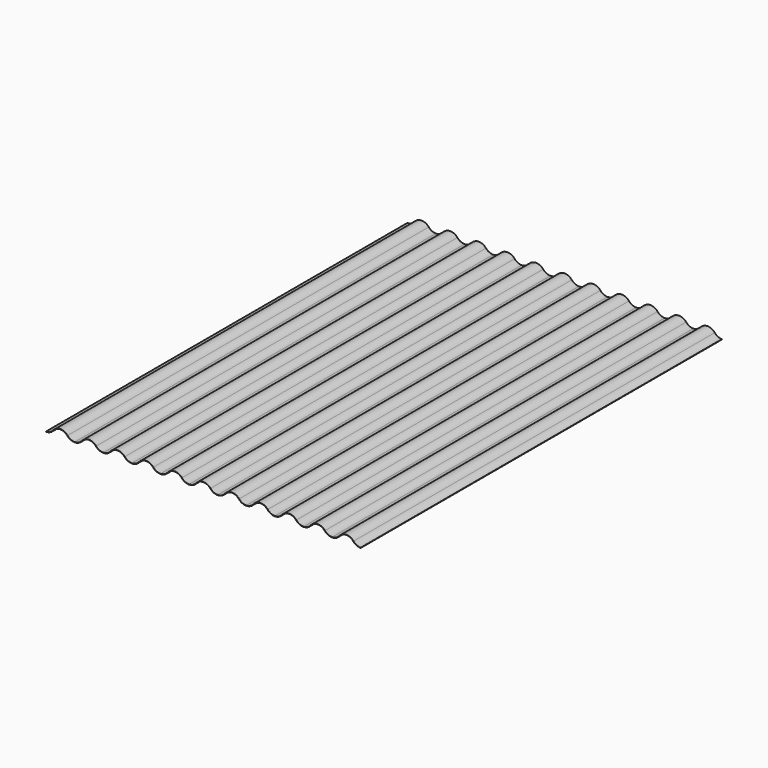
from build123d import *

# Parameters (mm, degrees)
F1_DEPTH = 1200


with BuildPart() as f1:
    # F0 (on Front) → F1 (new body)
    with BuildSketch(Plane.XZ):
        with BuildLine():
            ThreePointArc((38, 0), (27.488102, 2.363771), (19, 9))
            ThreePointArc((19, 9), (0, 18), (-19, 9))
            ThreePointArc((-19, 9), (-27.488102, 2.363771), (-38, 0))
            Line((-38, 0), (-38, -0.8))
            ThreePointArc((-38, -0.8), (-27.145633, 1.640781), (-18.380995, 8.493213))
            ThreePointArc((-18.380995, 8.493213), (0, 17.2), (18.380995, 8.493213))
            ThreePointArc((18.380995, 8.493213), (27.145633, 1.640781), (38, -0.8))
            ThreePointArc((38, -0.8), (48.854367, 1.640781), (57.619005, 8.493213))
            ThreePointArc((57.619005, 8.493213), (76, 17.2), (94.380995, 8.493213))
            ThreePointArc((94.380995, 8.493213), (103.145633, 1.640781), (114, -0.8))
            ThreePointArc((114, -0.8), (124.854367, 1.640781), (133.619005, 8.493213))
            ThreePointArc((133.619005, 8.493213), (152, 17.2), (170.380995, 8.493213))
            ThreePointArc((170.380995, 8.493213), (179.145633, 1.640781), (190, -0.8))
            ThreePointArc((190, -0.8), (200.854367, 1.640781), (209.619005, 8.493213))
            ThreePointArc((209.619005, 8.493213), (228, 17.2), (246.380995, 8.493213))
            ThreePointArc((246.380995, 8.493213), (255.145633, 1.640781), (266, -0.8))
            ThreePointArc((266, -0.8), (276.854367, 1.640781), (285.619005, 8.493213))
            ThreePointArc((285.619005, 8.493213), (304, 17.2), (322.380995, 8.493213))
            ThreePointArc((322.380995, 8.493213), (331.145633, 1.640781), (342, -0.8))
            ThreePointArc((342, -0.8), (352.854367, 1.640781), (361.619005, 8.493213))
            ThreePointArc((361.619005, 8.493213), (380, 17.2), (398.380995, 8.493213))
            ThreePointArc((398.380995, 8.493213), (407.145633, 1.640781), (418, -0.8))
            ThreePointArc((418, -0.8), (428.854367, 1.640781), (437.619005, 8.493213))
            ThreePointArc((437.619005, 8.493213), (456, 17.2), (474.380995, 8.493213))
            ThreePointArc((474.380995, 8.493213), (483.145633, 1.640781), (494, -0.8))
            ThreePointArc((494, -0.8), (504.854367, 1.640781), (513.619005, 8.493213))
            ThreePointArc((513.619005, 8.493213), (532, 17.2), (550.380995, 8.493213))
            ThreePointArc((550.380995, 8.493213), (559.145633, 1.640781), (570, -0.8))
            ThreePointArc((570, -0.8), (580.854367, 1.640781), (589.619005, 8.493213))
            ThreePointArc((589.619005, 8.493213), (608, 17.2), (626.380995, 8.493213))
            ThreePointArc((626.380995, 8.493213), (635.145633, 1.640781), (646, -0.8))
            ThreePointArc((646, -0.8), (656.854367, 1.640781), (665.619005, 8.493213))
            ThreePointArc((665.619005, 8.493213), (684, 17.2), (702.380995, 8.493213))
            ThreePointArc((702.380995, 8.493213), (711.145633, 1.640781), (722, -0.8))
            ThreePointArc((722, -0.8), (732.854367, 1.640781), (741.619005, 8.493213))
            ThreePointArc((741.619005, 8.493213), (760, 17.2), (778.380995, 8.493213))
            ThreePointArc((778.380995, 8.493213), (787.145633, 1.640781), (798, -0.8))
            Line((798, -0.8), (798, 0))
            ThreePointArc((798, 0), (787.488102, 2.363771), (779, 9))
            ThreePointArc((779, 9), (760, 18), (741, 9))
            ThreePointArc((741, 9), (732.511898, 2.363771), (722, 0))
            ThreePointArc((722, 0), (711.488102, 2.363771), (703, 9))
            ThreePointArc((703, 9), (684, 18), (665, 9))
            ThreePointArc((665, 9), (656.511898, 2.363771), (646, 0))
            ThreePointArc((646, 0), (635.488102, 2.363771), (627, 9))
            ThreePointArc((627, 9), (608, 18), (589, 9))
            ThreePointArc((589, 9), (580.511898, 2.363771), (570, 0))
            ThreePointArc((570, 0), (559.488102, 2.363771), (551, 9))
            ThreePointArc((551, 9), (532, 18), (513, 9))
            ThreePointArc((513, 9), (504.511898, 2.363771), (494, 0))
            ThreePointArc((494, 0), (483.488102, 2.363771), (475, 9))
            ThreePointArc((475, 9), (456, 18), (437, 9))
            ThreePointArc((437, 9), (428.511898, 2.363771), (418, 0))
            ThreePointArc((418, 0), (407.488102, 2.363771), (399, 9))
            ThreePointArc((399, 9), (380, 18), (361, 9))
            ThreePointArc((361, 9), (352.511898, 2.363771), (342, 0))
            ThreePointArc((342, 0), (331.488102, 2.363771), (323, 9))
            ThreePointArc((323, 9), (304, 18), (285, 9))
            ThreePointArc((285, 9), (276.511898, 2.363771), (266, 0))
            ThreePointArc((266, 0), (255.488102, 2.363771), (247, 9))
            ThreePointArc((247, 9), (228, 18), (209, 9))
            ThreePointArc((209, 9), (200.511898, 2.363771), (190, 0))
            ThreePointArc((190, 0), (179.488102, 2.363771), (171, 9))
            ThreePointArc((171, 9), (152, 18), (133, 9))
            ThreePointArc((133, 9), (124.511898, 2.363771), (114, 0))
            ThreePointArc((114, 0), (103.488102, 2.363771), (95, 9))
            ThreePointArc((95, 9), (76, 18), (57, 9))
            ThreePointArc((57, 9), (48.511898, 2.363771), (38, 0))
        make_face()
    extrude(amount=F1_DEPTH)


solid = f1.part
